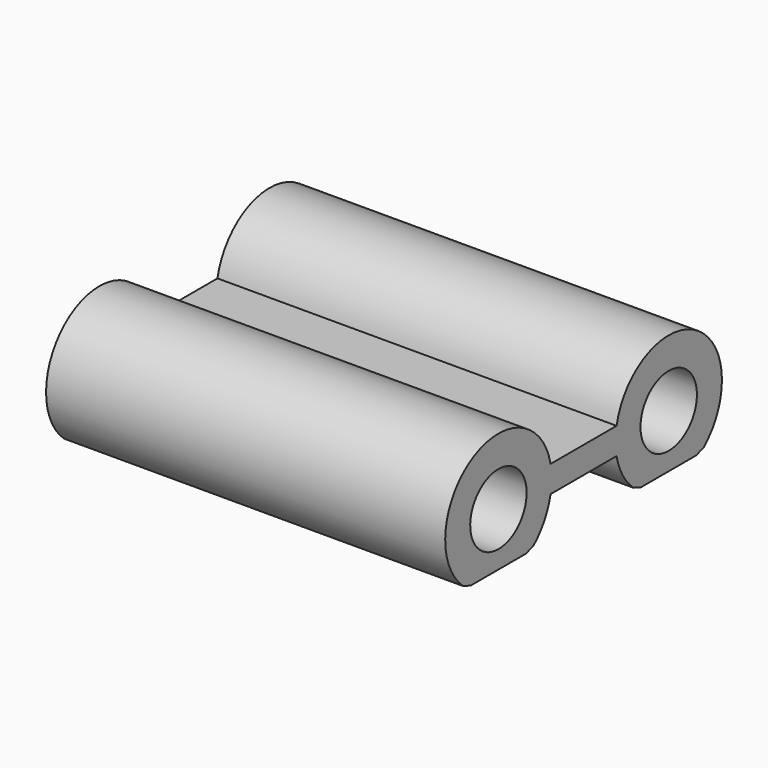
from build123d import *

# Parameters (mm, degrees)
BOX047_W           = 30
BOX047_H           = 24
BOX047_DEPTH       = 2
CYLINDER053_R      = 2.65
CYLINDER053_DEPTH  = 30
CYLINDER054_R      = 2.65
CYLINDER054_DEPTH  = 30
CYLINDER052_R      = 5
CYLINDER052_DEPTH  = 30
CYLINDER051_R      = 5
CYLINDER051_DEPTH  = 30
BOX046_W           = 30
BOX046_H           = 9
BOX046_DEPTH       = 2
CHAMFER006038_SIZE = 0.4


with BuildPart() as cube047:
    # Box047 → Box047 (new body)
    with BuildSketch(Plane(origin=(15, -12, 9), x_dir=(1, 0, 0), z_dir=(0, 0, 1))):
        with Locations((15, 12)):
            Rectangle(BOX047_W, BOX047_H)
    extrude(amount=BOX047_DEPTH)


with BuildPart() as cylinder053:
    # Cylinder053 → Cylinder053 (new body)
    with BuildSketch(Plane(origin=(15, -8, 15), x_dir=(0, 0, -1), z_dir=(1, 0, 0))):
        Circle(CYLINDER053_R)
    extrude(amount=CYLINDER053_DEPTH)


with BuildPart() as fusion020006007003002009018004004019:
    # Cylinder054 → Cylinder054 (new body)
    with BuildSketch(Plane(origin=(15, 8, 15), x_dir=(0, 0, -1), z_dir=(1, 0, 0))):
        Circle(CYLINDER054_R)
    extrude(amount=CYLINDER054_DEPTH)

    # Fusion020006007003002009018004004019: union Cylinder053
    add(cylinder053.part)


with BuildPart() as cylinder052:
    # Cylinder052 → Cylinder052 (new body)
    with BuildSketch(Plane(origin=(15, -8, 15), x_dir=(0, 0, -1), z_dir=(1, 0, 0))):
        Circle(CYLINDER052_R)
    extrude(amount=CYLINDER052_DEPTH)


with BuildPart() as cylinder051:
    # Cylinder051 → Cylinder051 (new body)
    with BuildSketch(Plane(origin=(15, 8, 15), x_dir=(0, 0, -1), z_dir=(1, 0, 0))):
        Circle(CYLINDER051_R)
    extrude(amount=CYLINDER051_DEPTH)


with BuildPart() as back_30mm_spacer_trim:
    # Box046 → Box046 (new body)
    with BuildSketch(Plane(origin=(15, -4, 14), x_dir=(1, 0, 0), z_dir=(0, 0, 1))):
        with Locations((15, 4.5)):
            Rectangle(BOX046_W, BOX046_H)
    extrude(amount=BOX046_DEPTH)

    # Fusion020006007003002009018004004018: union Cylinder052, Cylinder051
    add(cylinder052.part)
    add(cylinder051.part)

    # Cut019003008: cut Fusion020006007003002009018004004019
    add(fusion020006007003002009018004004019.part, mode=Mode.SUBTRACT)

    # Cut019003009: cut Cube047
    add(cube047.part, mode=Mode.SUBTRACT)

    # Chamfer006038
    chamfer006038_edges = [back_30mm_spacer_trim.edges().sort_by_distance(p)[0] for p in [
        (30, -5, 11),
        (30, -11, 11),
        (30, 11, 11),
        (30, 5, 11),
    ]]
    chamfer(chamfer006038_edges, length=CHAMFER006038_SIZE)


solid = back_30mm_spacer_trim.part
